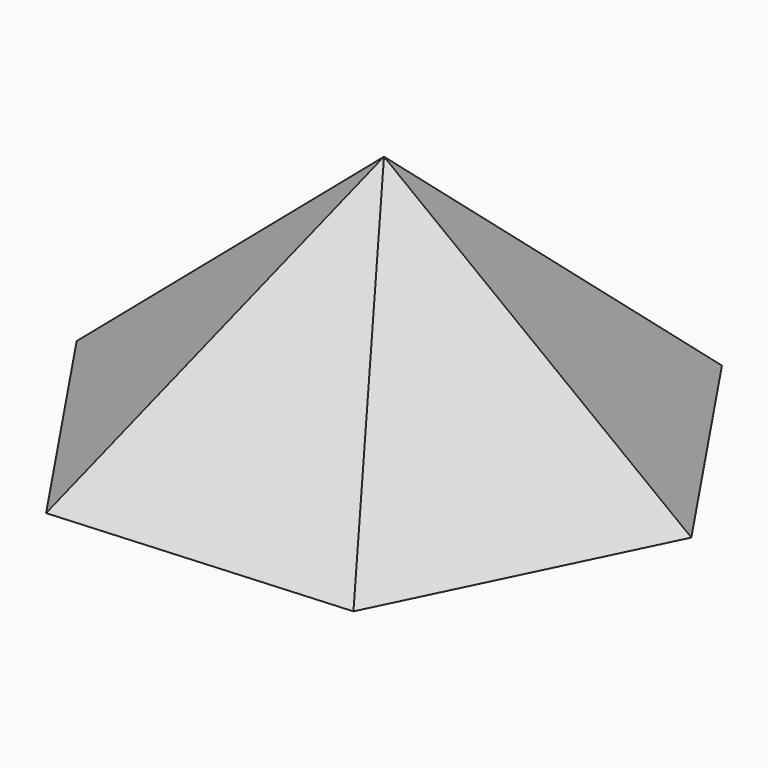
from build123d import *


with BuildPart() as f3:
    # F0 (on Top) → F3 section 0
    with BuildSketch(Plane.XY, mode=Mode.PRIVATE) as f3_s0:
        Polygon((65.532855, -97.265273), (117.000625, 8.120481), (51.467769, 105.385754), (-65.532855, 97.265273), (-117.000625, -8.120481), (-51.467769, -105.385754), align=None)
    loft([f3_s0.sketch, Vertex(0, 0, 100)])


solid = f3.part
